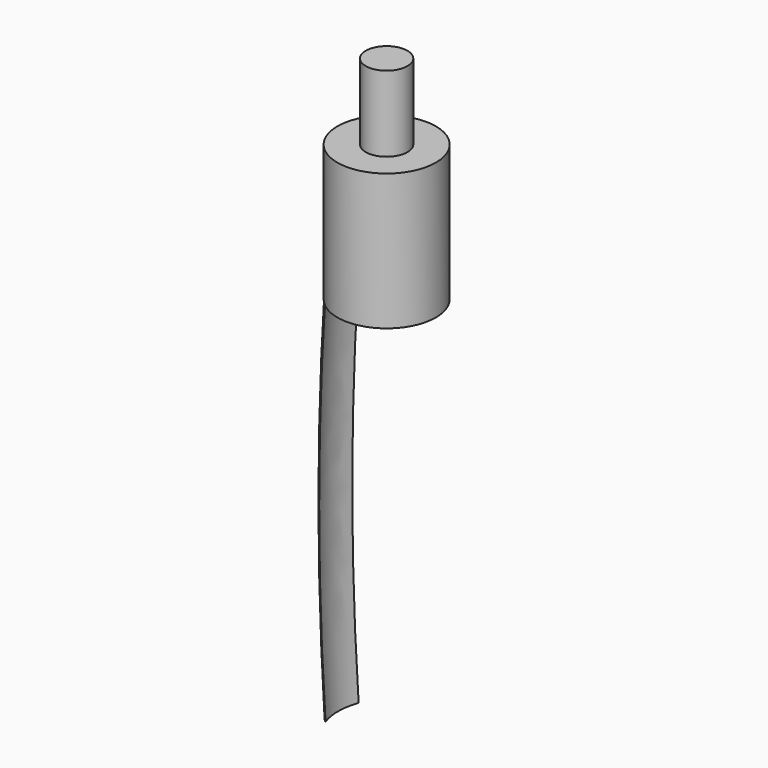
from build123d import *

# Parameters (mm, degrees)
F0_R     = 2.75
F5_DEPTH = 28
F1_R     = 6.5
F6_DEPTH = 18


with BuildPart() as f5:
    # F0 (on Top) → F5 (new body)
    with BuildSketch(Plane.XY):
        Circle(F0_R)
    extrude(amount=F5_DEPTH)


with BuildPart() as f6:
    # F1 (on Top) → F6 (new body)
    with BuildSketch(Plane.XY):
        Circle(F1_R)
    extrude(amount=F6_DEPTH)


with BuildPart() as f7:
    # F7: sweep along a path in F4
    with BuildLine(Plane.XZ) as f7_path:
        ThreePointArc((-6.4992159605, 0), (-7.3430806348, -25), (-6.4992159605, -50))
    # F3 (on Top) → F7 (sweep)
    with BuildSketch(Plane.XY):
        with BuildLine():
            ThreePointArc((-5.8783353306, -2.721416764), (-6.4495805989, 0.0064863125), (-5.8783353306, 2.7343893889))
            ThreePointArc((-5.8783353306, 2.7343893889), (-7.2374467799, 0.0064863125), (-5.8783353306, -2.721416764))
        make_face()
    sweep(path=f7_path.line)


solid = Compound([f5.part, f6.part, f7.part])
